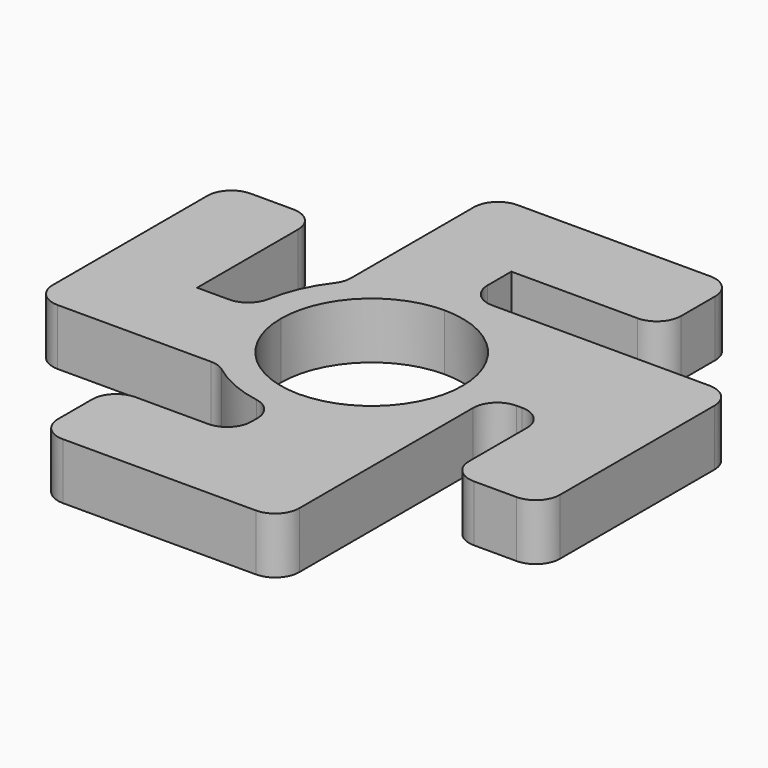
from build123d import *

# Parameters (mm, degrees)
F0_W     = 11.3
F0_H     = 11.3
F0_H_2   = 18.7
F0_W_2   = 18.7
F0_H_3   = 15
F0_W_3   = 15
F1_DEPTH = 7
F2_R     = 3
F3_R     = 3


with BuildPart() as f1:
    # F0 (on Top) → F1 (new body)
    with BuildSketch(Plane.XY):
        with BuildLine():
            Line((-11.3, 9.8645831133), (-11.3, 0))
            ThreePointArc((-11.3, 0), (-7.9903066274, 7.9903066274), (0, 11.3))
            Line((0, 11.3), (0, 15))
            ThreePointArc((0, 15), (-6.2060959266, 13.6559281395), (-11.3, 9.8645831133))
        make_face()
        with BuildLine():
            Line((-15, 0), (-11.3, 0))
            Line((-11.3, 0), (-11.3, 9.8645831133))
            ThreePointArc((-11.3, 9.8645831133), (-14.0445719052, 5.2678268764), (-15, 0))
        make_face()
        with BuildLine():
            ThreePointArc((0, -11.3), (-7.9903066274, -7.9903066274), (-11.3, 0))
            Line((-11.3, 0), (-15, 0))
            ThreePointArc((-15, 0), (-13.6559281395, -6.2060959266), (-9.8645831133, -11.3))
            Line((-9.8645831133, -11.3), (0, -11.3))
        make_face()
        with BuildLine():
            ThreePointArc((-9.8645831133, -11.3), (-13.6559281395, -6.2060959266), (-15, 0))
            Line((-15, 0), (-21.7, 0))
            Line((-21.7, 0), (-21.7, -11.3))
            Line((-21.7, -11.3), (-9.8645831133, -11.3))
        make_face()
        with Locations((-27.35, -5.65)):
            Rectangle(F0_W, F0_H)
        with Locations((-27.35, 9.35)):
            Rectangle(F0_W, F0_H_2)
        with BuildLine():
            Line((-11.3, 21.7), (-11.3, 9.8645831133))
            ThreePointArc((-11.3, 9.8645831133), (-6.2060959266, 13.6559281395), (0, 15))
            Line((0, 15), (0, 21.7))
            Line((0, 21.7), (-11.3, 21.7))
        make_face()
        with Locations((-5.65, 27.35)):
            Rectangle(F0_W, F0_H)
        with Locations((9.35, 27.35)):
            Rectangle(F0_W_2, F0_H)
        with BuildLine():
            Line((21.7, 15), (0, 15))
            ThreePointArc((0, 15), (10.6066017178, 10.6066017178), (15, 0))
            Line((15, 0), (21.7, 0))
            Line((21.7, 0), (21.7, 15))
        make_face()
        with Locations((27.35, 7.5)):
            Rectangle(F0_W, F0_H_3)
        with Locations((27.35, -7.5)):
            Rectangle(F0_W, F0_H_3)
        with BuildLine():
            ThreePointArc((15, 0), (10.6066017178, -10.6066017178), (0, -15))
            Line((0, -15), (0, -21.7))
            Line((0, -21.7), (15, -21.7))
            Line((15, -21.7), (15, 0))
        make_face()
        with Locations((7.5, -27.35)):
            Rectangle(F0_W_3, F0_H)
        with Locations((-7.5, -27.35)):
            Rectangle(F0_W_3, F0_H)
        with BuildLine():
            ThreePointArc((11.3, 0), (7.9903066274, -7.9903066274), (0, -11.3))
            Line((0, -11.3), (0, -15))
            ThreePointArc((0, -15), (10.6066017178, -10.6066017178), (15, 0))
            Line((15, 0), (11.3, 0))
        make_face()
        with BuildLine():
            Line((0, -15), (0, -11.3))
            Line((0, -11.3), (-9.8645831133, -11.3))
            ThreePointArc((-9.8645831133, -11.3), (-5.2678268764, -14.0445719052), (0, -15))
        make_face()
        with BuildLine():
            Line((0, 15), (0, 11.3))
            ThreePointArc((0, 11.3), (7.9903066274, 7.9903066274), (11.3, 0))
            Line((11.3, 0), (15, 0))
            ThreePointArc((15, 0), (10.6066017178, 10.6066017178), (0, 15))
        make_face()
    extrude(amount=F1_DEPTH)

    # F2
    f2_edges = [f1.edges().sort_by_distance(p)[0] for p in [
        (21.7, 0, 3.5),
        (0, -21.7, 3.5),
        (-15, 0, 3.5),
        (0, 15, 3.5),
        (-11.3, 9.864583, 3.5),
        (0, -15, 3.5),
        (-9.864583, -11.3, 3.5),
        (15, 0, 3.5),
    ]]
    fillet(f2_edges, radius=F2_R)

    # F3
    f3_edges = [f1.edges().sort_by_distance(p)[0] for p in [
        (-33, -11.3, 3.5),
        (-15, -33, 3.5),
        (-33, 18.7, 3.5),
        (-21.7, 18.7, 3.5),
        (-15, -21.7, 3.5),
        (15, -33, 3.5),
        (21.7, -15, 3.5),
        (33, -15, 3.5),
        (33, 15, 3.5),
        (18.7, 21.7, 3.5),
        (18.7, 33, 3.5),
        (-11.3, 33, 3.5),
    ]]
    fillet(f3_edges, radius=F3_R)


solid = f1.part
